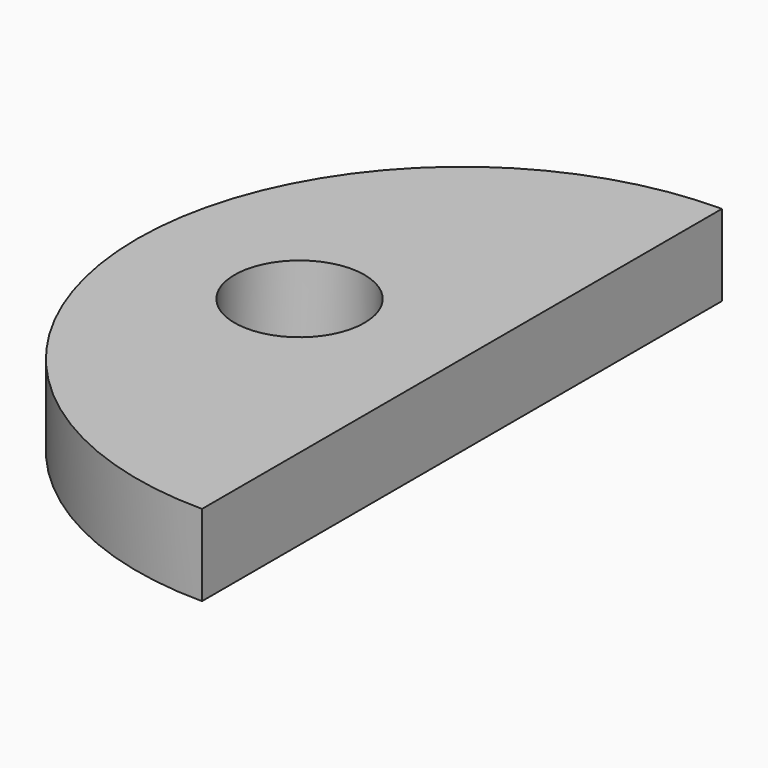
from build123d import *

# Parameters (mm, degrees)
BOX010_W          = 10
BOX010_H          = 20
BOX010_DEPTH      = 2.5
CYLINDER004_R     = 2
CYLINDER004_DEPTH = 2.5
CYLINDER005_R     = 10
CYLINDER005_DEPTH = 2.5


with BuildPart() as cubo002:
    # Box010 → Box010 (new body)
    with BuildSketch(Plane.XY.offset(25)):
        with Locations((5, 10)):
            Rectangle(BOX010_W, BOX010_H)
    extrude(amount=BOX010_DEPTH)


with BuildPart() as cilindro004:
    # Cylinder004 → Cylinder004 (new body)
    with BuildSketch(Plane(origin=(-5, 10, 25), x_dir=(1, 0, 0), z_dir=(0, 0, 1))):
        Circle(CYLINDER004_R)
    extrude(amount=CYLINDER004_DEPTH)


with BuildPart() as cut010:
    # Cylinder005 → Cylinder005 (new body)
    with BuildSketch(Plane(origin=(0, 10, 25), x_dir=(1, 0, 0), z_dir=(0, 0, 1))):
        Circle(CYLINDER005_R)
    extrude(amount=CYLINDER005_DEPTH)

    # Cut009: cut Cilindro004
    add(cilindro004.part, mode=Mode.SUBTRACT)

    # Cut010: cut Cubo002
    add(cubo002.part, mode=Mode.SUBTRACT)


solid = cut010.part
